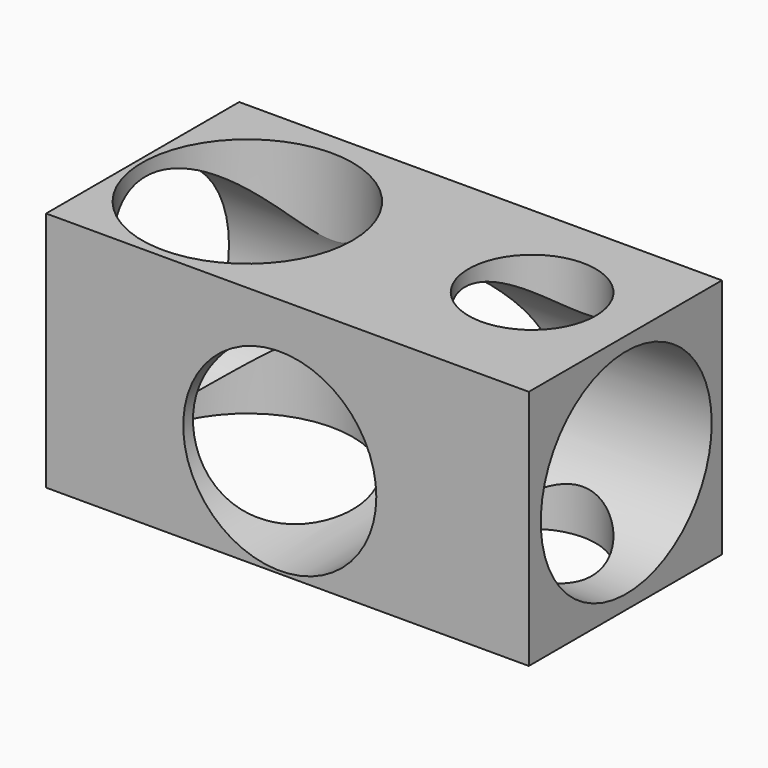
from build123d import *

# Parameters (mm, degrees)
F0_W     = 100
F0_H     = 50
F1_DEPTH = 50
F2_R     = 20
F3_DEPTH = 50
F4_R     = 13.165376
F5_DEPTH = 50
F6_R     = 22.132064
F7_DEPTH = 100
F8_R     = 21.806189
F9_DEPTH = 50


with BuildPart() as f1:
    # F0 (on Top) → F1 (new body)
    with BuildSketch(Plane.XY):
        with Locations((1.589868, -17.604755)):
            Rectangle(F0_W, F0_H)
    extrude(amount=F1_DEPTH)

    # F2 (on face) → F3 (cut, through all)
    with BuildSketch(Plane.XZ.offset(42.604755)):
        with Locations((0, 20.578137)):
            Circle(F2_R)
    extrude(amount=-F3_DEPTH, mode=Mode.SUBTRACT)

    # F4 (on face) → F5 (cut, through all)
    with BuildSketch(Plane(origin=(0, 0, 0), x_dir=(1, 0, 0), z_dir=(0, 0, -1))):
        with Locations((30.236604, 15.062567)):
            Circle(F4_R)
    extrude(amount=-F5_DEPTH, mode=Mode.SUBTRACT)

    # F6 (on face) → F7 (cut)
    with BuildSketch(Plane.YZ.offset(51.589868)):
        with Locations((-17.381595, 25.024535)):
            Circle(F6_R)
    extrude(amount=-F7_DEPTH, mode=Mode.SUBTRACT)

    # F8 (on face) → F9 (cut)
    with BuildSketch(Plane.XY.offset(50)):
        with Locations((-25.599306, -19.005001)):
            Circle(F8_R)
    extrude(amount=-F9_DEPTH, mode=Mode.SUBTRACT)


solid = f1.part
